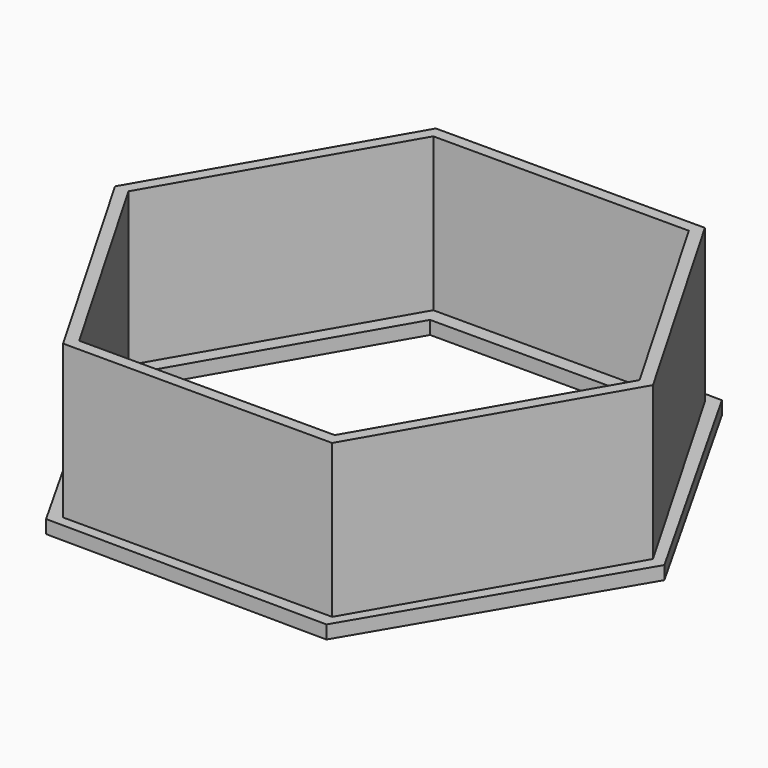
from build123d import *

# Parameters (mm, degrees)
F1_DEPTH = 25
F3_DEPTH = 2
F5_DEPTH = 15.1


with BuildPart() as f1:
    # F0 (on Top) → F1 (new body)
    with BuildSketch(Plane.XY):
        Polygon((20.207259, -35), (40.414519, 0), (20.207259, 35), (-20.207259, 35), (-40.414519, 0), (-20.207259, -35), align=None)
        Polygon((19.196896, 33.25), (38.393793, 0), (19.196896, -33.25), (-19.196896, -33.25), (-38.393793, 0), (-19.196896, 33.25), align=None, mode=Mode.SUBTRACT)
    extrude(amount=F1_DEPTH)

    # F2 (on Top) → F3 (join)
    with BuildSketch(Plane.XY):
        Polygon((20.888331, -36.919732), (42.417591, -0.370041), (21.52926, 36.549691), (-20.888331, 36.919732), (-42.417591, 0.370041), (-21.52926, -36.549691), align=None)
    extrude(amount=F3_DEPTH)

    # F4 (on Top) → F5 (cut)
    with BuildSketch(Plane.XY):
        Polygon((17.955634, -31.100071), (35.911268, 0), (17.955634, 31.100071), (-17.955634, 31.100071), (-35.911268, 0), (-17.955634, -31.100071), align=None)
    extrude(amount=F5_DEPTH, mode=Mode.SUBTRACT)


solid = f1.part
